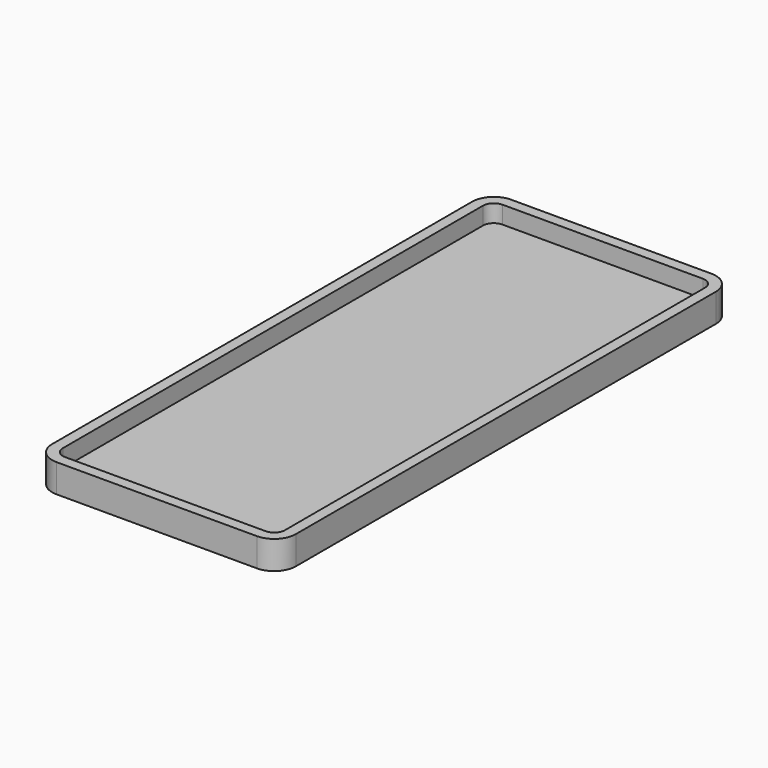
from build123d import *

# Parameters (mm, degrees)
F0_W     = 56.306915
F0_H     = 131.31
F1_DEPTH = 6.55
F2_R     = 5
F3_T     = -2.5


with BuildPart() as f1:
    # F0 (on Top) → F1 (new body)
    with BuildSketch(Plane.XY):
        with Locations((-6.374369, -1.911319)):
            Rectangle(F0_W, F0_H)
    extrude(amount=F1_DEPTH)

    # F2
    f2_edges = [f1.edges().sort_by_distance(p)[0] for p in [
        (21.779088, 63.743681, 3.275),
        (21.779088, -67.566319, 3.275),
        (-34.527827, -67.566319, 3.275),
        (-34.527827, 63.743681, 3.275),
    ]]
    fillet(f2_edges, radius=F2_R)

    # F3
    f3_openings = [f1.faces().sort_by_distance(p)[0] for p in [
        (-6.374369, -1.911319, 6.55),
    ]]
    offset(amount=F3_T, openings=f3_openings)


solid = f1.part
